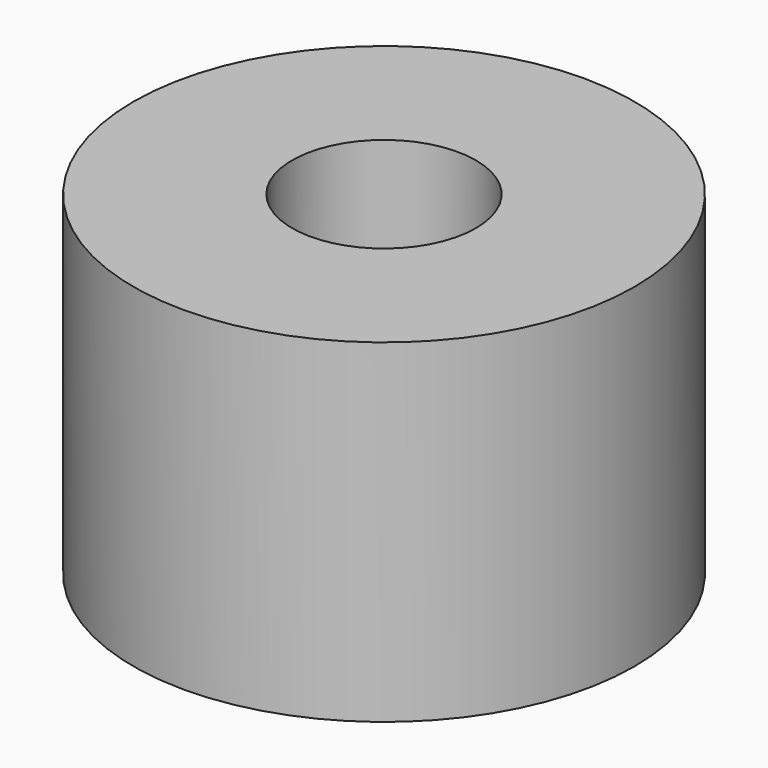
from build123d import *

# Parameters (mm, degrees)
CYLINDER1295_R     = 1
CYLINDER1295_DEPTH = 20
CYLINDER1297_R     = 1
CYLINDER1297_DEPTH = 20
CYLINDER1298_R     = 1
CYLINDER1298_DEPTH = 20
CYLINDER1291_R     = 1
CYLINDER1291_DEPTH = 20
TUBE106_R          = 7.5
TUBE106_R_2        = 2.75
TUBE106_DEPTH      = 10


with BuildPart() as obj1:
    # Cylinder1295 → Cylinder1295 (new body)
    with BuildSketch(Plane(origin=(4, -4, -88), x_dir=(0, 1, 0), z_dir=(0, 0, 1))):
        Circle(CYLINDER1295_R)
    extrude(amount=CYLINDER1295_DEPTH)


with BuildPart() as obj2:
    # Cylinder1297 → Cylinder1297 (new body)
    with BuildSketch(Plane(origin=(4, 4, -88), x_dir=(-1, 0, 0), z_dir=(0, 0, 1))):
        Circle(CYLINDER1297_R)
    extrude(amount=CYLINDER1297_DEPTH)


with BuildPart() as obj3:
    # Cylinder1298 → Cylinder1298 (new body)
    with BuildSketch(Plane(origin=(-4, 4, -88), x_dir=(0, -1, 0), z_dir=(0, 0, 1))):
        Circle(CYLINDER1298_R)
    extrude(amount=CYLINDER1298_DEPTH)


with BuildPart() as compound926:
    # Cylinder1291 → Cylinder1291 (new body)
    with BuildSketch(Plane(origin=(-4, -4, -88), x_dir=(1, 0, 0), z_dir=(0, 0, 1))):
        Circle(CYLINDER1291_R)
    extrude(amount=CYLINDER1291_DEPTH)

    # Compound926: union obj1, obj2, obj3
    add(obj1.part)
    add(obj2.part)
    add(obj3.part)


with BuildPart() as compound926_1:
    # Compound926 placement: moved
    add(compound926.part.moved(Location((0, 0, 91))))


with BuildPart() as cut440:
    # Tube106 → Tube106 (new body)
    with BuildSketch(Plane.XY.offset(19)):
        Circle(TUBE106_R)
        Circle(TUBE106_R_2, mode=Mode.SUBTRACT)
    extrude(amount=TUBE106_DEPTH)

    # Cut440: cut Compound926
    add(compound926_1.part, mode=Mode.SUBTRACT)


solid = cut440.part
